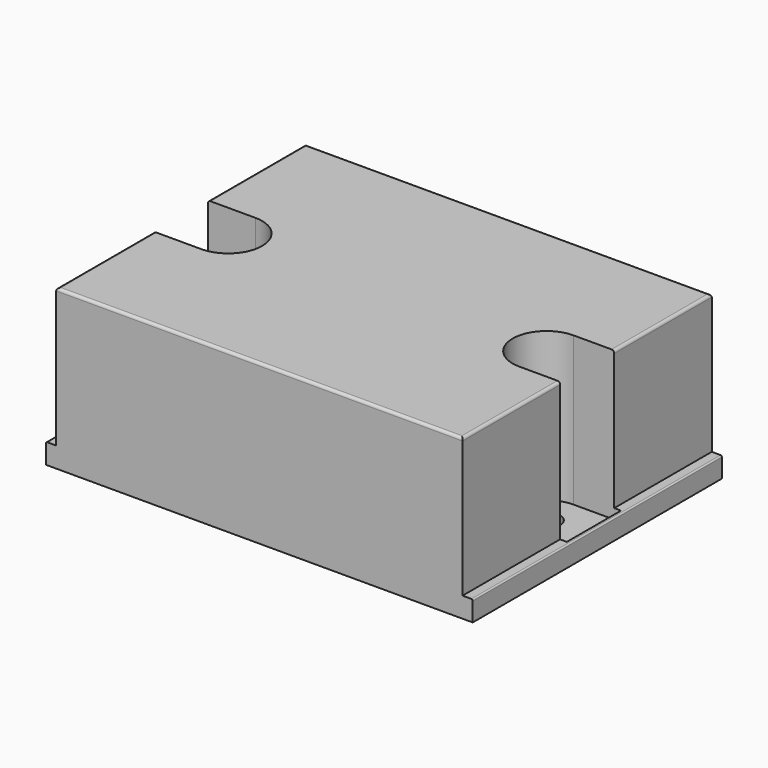
from build123d import *

# Parameters (mm, degrees)
BOX007_W                = 46
BOX007_H                = 60
BOX007_DEPTH            = 22
PAD010_DEPTH            = 46
POCKET_DEPTH            = 22
POCKET001_DEPTH         = 22
CYLINDER_R              = 2
CYLINDER_DEPTH          = 4
POCKET002_DEPTH         = 2
FILLET002_R             = 0.2
FILLET003_R             = 0.4
BODY010_PLACEMENT_ANGLE = 90


with BuildPart() as part:
    # Box007 → Box007 (join)
    with BuildSketch(Plane.XY):
        with Locations((23, 30)):
            Rectangle(BOX007_W, BOX007_H)
    extrude(amount=BOX007_DEPTH)

    # Sketch012 → Pad010 (join)
    with BuildSketch(Plane.YZ):
        Polygon((0, 1.5), (-1.5, 1.5), (-1.5, -1.5), (61.5, -1.5), (61.5, 1.5), (60, 1.5), (60, 0), (0, 0), align=None)
    extrude(amount=PAD010_DEPTH)

    # Sketch013 → Pocket (cut)
    with BuildSketch(Plane.XY):
        with BuildLine():
            ThreePointArc((28, 6), (23, 11), (18, 6))
            Line((18, 6), (18, -1))
            Line((18, -1), (28, -1))
            Line((28, -1), (28, 6))
        make_face()
    extrude(amount=POCKET_DEPTH, mode=Mode.SUBTRACT)

    # Sketch014 → Pocket001 (cut)
    with BuildSketch(Plane.XY):
        with BuildLine():
            ThreePointArc((18, 53), (23, 48), (28, 53))
            Line((28, 53), (28, 61))
            Line((28, 61), (18, 61))
            Line((18, 61), (18, 53))
        make_face()
    extrude(amount=POCKET001_DEPTH, mode=Mode.SUBTRACT)

    # Cylinder → Cylinder (cut)
    with BuildSketch(Plane(origin=(23, 6, -2), x_dir=(1, 0, 0), z_dir=(0, 0, 1))):
        Circle(CYLINDER_R)
    extrude(amount=CYLINDER_DEPTH, mode=Mode.SUBTRACT)

    # Sketch015 → Pocket002 (cut, symmetric)
    with BuildSketch(Plane.XY):
        with BuildLine():
            ThreePointArc((25, 56), (23, 58), (21, 56))
            Line((21, 56), (21, 53))
            ThreePointArc((21, 53), (23, 51), (25, 53))
            Line((25, 53), (25, 56))
        make_face()
    extrude(amount=POCKET002_DEPTH, both=True, mode=Mode.SUBTRACT)

    # Fillet002
    fillet002_edges = [part.edges().sort_by_distance(p)[0] for p in [
        (23, -1.5, 1.5),
        (23, 61.5, 1.5),
    ]]
    fillet(fillet002_edges, radius=FILLET002_R)

    # Fillet003
    fillet003_edges = [part.edges().sort_by_distance(p)[0] for p in [
        (9, 0, 22),
        (37, 0, 22),
        (46, 30, 22),
        (37, 60, 22),
        (9, 60, 22),
        (0, 30, 22),
    ]]
    fillet(fillet003_edges, radius=FILLET003_R)


with BuildPart() as part_1:
    # Body010 placement: moved
    add(part.part.moved(Location((30, -42, -74.8))).rotate(Axis((30, -42, -74.8), (0, 0, 1)), BODY010_PLACEMENT_ANGLE))


solid = part_1.part
